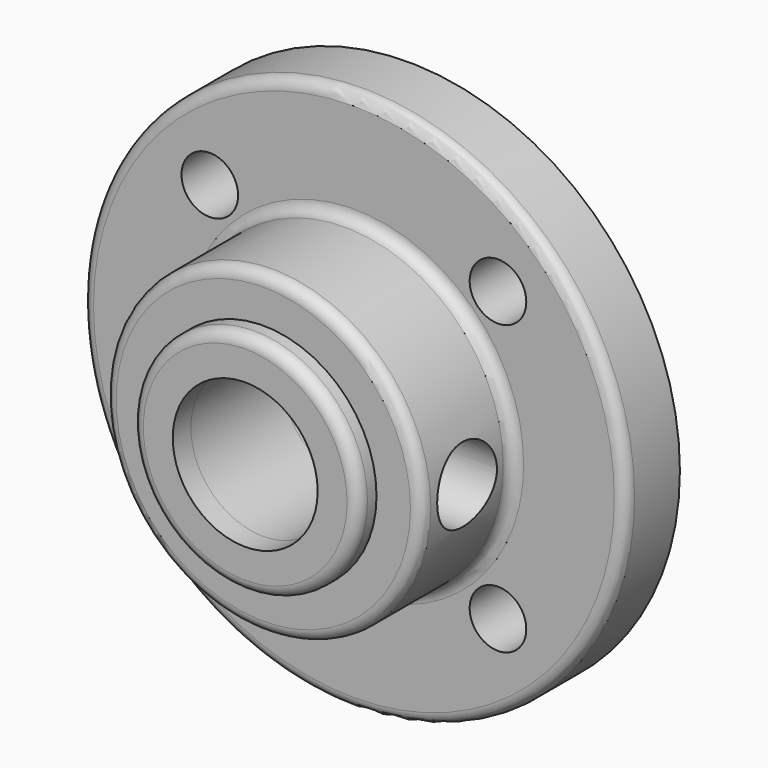
from build123d import *

# Parameters (mm, degrees)
F0_R      = 12
F0_R_2    = 1.25
F0_R_3    = 5.95
F0_R_4    = 3.2
F1_DEPTH  = 3
F2_R      = 5.95
F2_R_2    = 3.2
F3_DEPTH  = 2.4
F4_R      = 4.05
F4_R_2    = 3.2
F5_DEPTH  = 0.6
F6_R      = 7
F6_R_2    = 3.2
F7_DEPTH  = 5
F8_R      = 1.65
F9_DEPTH  = 50
F10_R     = 0.5
F11_R     = 0.25
F12_R     = 5
F12_R_2   = 3.2
F13_DEPTH = 1
F14_R     = 0.5


with BuildPart() as f1:
    # F0 (on Front) → F1 (new body)
    with BuildSketch(Plane.XZ):
        with Locations((-51.9292845109, 29.5506940656)):
            Circle(F0_R)
        with Locations((-58.2932455416, 23.1867330349)):
            Circle(F0_R_2, mode=Mode.SUBTRACT)
        with Locations((-45.5653234802, 23.1867330349)):
            Circle(F0_R_2, mode=Mode.SUBTRACT)
        with Locations((-58.2932455416, 35.9146550963)):
            Circle(F0_R_2, mode=Mode.SUBTRACT)
        with Locations((-51.9292845109, 29.5506940656)):
            Circle(F0_R_3, mode=Mode.SUBTRACT)
        with Locations((-45.5653234802, 35.9146550963)):
            Circle(F0_R_2, mode=Mode.SUBTRACT)
        with Locations((-51.9292845109, 29.5506940656)):
            Circle(F0_R_3)
        with Locations((-51.9292845109, 29.5506940656)):
            Circle(F0_R_4, mode=Mode.SUBTRACT)
    extrude(amount=F1_DEPTH)

    # F2 (on face) → F3 (join)
    with BuildSketch(Plane(origin=(0, 0, 0), x_dir=(-1, 0, 0), z_dir=(0, 1, 0))):
        with Locations((51.9292845109, 29.5506940656)):
            Circle(F2_R)
        with Locations((51.9292845109, 29.5506940656)):
            Circle(F2_R_2, mode=Mode.SUBTRACT)
    extrude(amount=F3_DEPTH)

    # F4 (on face) → F5 (join)
    with BuildSketch(Plane(origin=(0, 2.4, 0), x_dir=(-1, 0, 0), z_dir=(0, 1, 0))):
        with Locations((51.9292845109, 29.5506940656)):
            Circle(F4_R)
        with Locations((51.9292845109, 29.5506940656)):
            Circle(F4_R_2, mode=Mode.SUBTRACT)
    extrude(amount=F5_DEPTH)

    # F6 (on face) → F7 (join)
    with BuildSketch(Plane.XZ.offset(3)):
        with Locations((-51.9292845109, 29.5506940656)):
            Circle(F6_R)
        with Locations((-51.9292845109, 29.5506940656)):
            Circle(F6_R_2, mode=Mode.SUBTRACT)
    extrude(amount=F7_DEPTH)

    # F8 (on Right) → F9 (cut)
    with BuildSketch(Plane.YZ):
        with Locations((-5.5, 29.5712342486)):
            Circle(F8_R)
    extrude(amount=-F9_DEPTH, mode=Mode.SUBTRACT)

    # F10
    f10_edges = [f1.edges().sort_by_distance(p)[0] for p in [
        (-58.929285, -8, 29.550694),
        (-63.929285, -3, 29.550694),
        (-58.929285, -3, 29.550694),
    ]]
    fillet(f10_edges, radius=F10_R)

    # F11
    f11_edges = [f1.edges().sort_by_distance(p)[0] for p in [
        (-47.879285, 3, 29.550694),
        (-45.979285, 2.4, 29.550694),
    ]]
    fillet(f11_edges, radius=F11_R)

    # F12 (on face) → F13 (join)
    with BuildSketch(Plane.XZ.offset(8)):
        with Locations((-51.9292845109, 29.5506940656)):
            Circle(F12_R)
        with Locations((-51.9292845109, 29.5506940656)):
            Circle(F12_R_2, mode=Mode.SUBTRACT)
    extrude(amount=F13_DEPTH)

    # F14
    f14_edges = [f1.edges().sort_by_distance(p)[0] for p in [
        (-56.929285, -9, 29.550694),
    ]]
    fillet(f14_edges, radius=F14_R)


with BuildPart() as f15_1:
    # F15: copy of F1
    add(f1.part)


solid = Compound([f1.part, f15_1.part])
